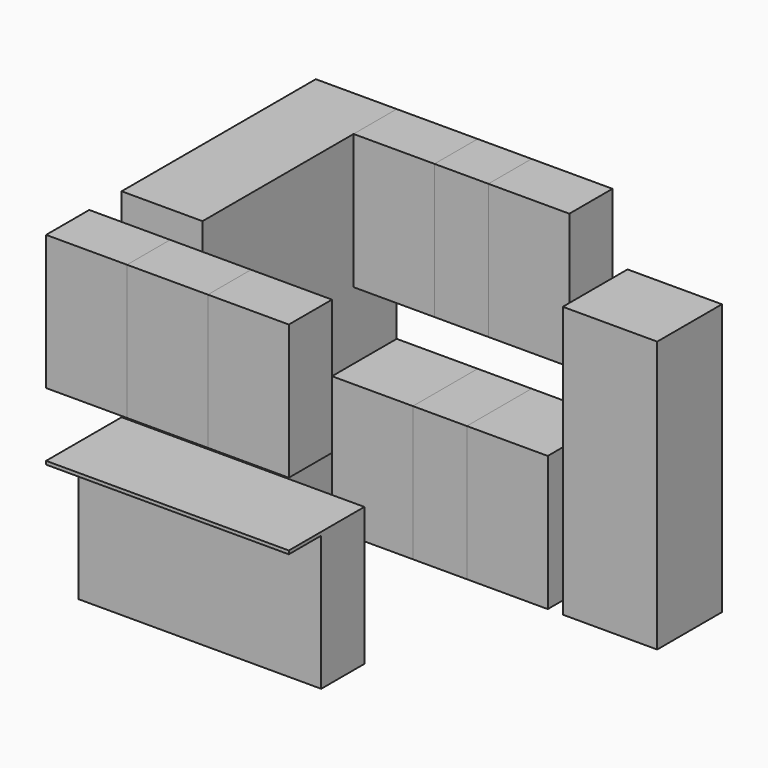
from build123d import *

# Parameters (mm, degrees)
F0_W      = 70
F0_H      = 60
F1_DEPTH  = 201
F0_W_2    = 60
F2_DEPTH  = 100
F3_DEPTH  = 100
F0_W_3    = 40
F4_DEPTH  = 100
F5_DEPTH  = 250
F6_DEPTH  = 250
F0_H_2    = 40
F7_DEPTH  = 100
F8_DEPTH  = 100
F9_DEPTH  = 100
F10_W     = 180
F10_H     = 70
F11_DEPTH = 2.5
F12_W     = 60
F12_H     = 40
F13_DEPTH = 100
F14_W     = 60
F14_H     = 40
F15_DEPTH = 100
F16_W     = 60
F16_H     = 40
F17_DEPTH = 100
F18_W     = 60
F18_H     = 40
F19_DEPTH = 100
F20_W     = 40
F20_H     = 40
F21_DEPTH = 100
F22_W     = 60
F22_H     = 40
F23_DEPTH = 100


with BuildPart() as f1:
    # F0 (on Top) → F1 (new body)
    with BuildSketch(Plane.XY):
        with Locations((266.143773, -30)):
            Rectangle(F0_W, F0_H)
    extrude(amount=F1_DEPTH)


with BuildPart() as f2:
    # F0 (on Top) → F2 (new body)
    with BuildSketch(Plane.XY):
        with Locations((190, -30)):
            Rectangle(F0_W_2, F0_H)
    extrude(amount=F2_DEPTH)


with BuildPart() as f3:
    # F0 (on Top) → F3 (new body)
    with BuildSketch(Plane.XY):
        with Locations((90, -30)):
            Rectangle(F0_W_2, F0_H)
    extrude(amount=F3_DEPTH)

    # F0 (on Top) → F5 (join)
    with BuildSketch(Plane.XY):
        Polygon((60, 0), (0, 0), (0, -120), (60, -120), (60, -60), align=None)
    extrude(amount=F5_DEPTH)

    # F0 (on Top) → F6 (join)
    with BuildSketch(Plane.XY):
        with Locations((30, -150)):
            Rectangle(F0_W_2, F0_H)
    extrude(amount=F6_DEPTH)

    # F0 (on Top) → F7 (join)
    with BuildSketch(Plane.XY):
        with Locations((30, -200)):
            Rectangle(F0_W_2, F0_H_2)
    extrude(amount=F7_DEPTH)

    # F0 (on Top) → F8 (join)
    with BuildSketch(Plane.XY):
        with Locations((90, -200)):
            Rectangle(F0_W_2, F0_H_2)
    extrude(amount=F8_DEPTH)

    # F0 (on Top) → F9 (join)
    with BuildSketch(Plane.XY):
        with Locations((150, -200)):
            Rectangle(F0_W_2, F0_H_2)
    extrude(amount=F9_DEPTH)

    # F10 (on face) → F11 (join)
    with BuildSketch(Plane.XY.offset(100)):
        with Locations((90, -215)):
            Rectangle(F10_W, F10_H)
    extrude(amount=F11_DEPTH)


with BuildPart() as f4:
    # F0 (on Top) → F4 (new body)
    with BuildSketch(Plane.XY):
        with Locations((140, -30)):
            Rectangle(F0_W_3, F0_H)
    extrude(amount=F4_DEPTH)


with BuildPart() as f13:
    # F12 (on face) → F13 (new body)
    with BuildSketch(Plane.XY.offset(250)):
        with Locations((30, -230)):
            Rectangle(F12_W, F12_H)
    extrude(amount=-F13_DEPTH)


with BuildPart() as f15:
    # F14 (on face) → F15 (new body)
    with BuildSketch(Plane.XY.offset(250)):
        with Locations((90, -230)):
            Rectangle(F14_W, F14_H)
    extrude(amount=-F15_DEPTH)


with BuildPart() as f17:
    # F16 (on face) → F17 (new body)
    with BuildSketch(Plane.XY.offset(250)):
        with Locations((150, -230)):
            Rectangle(F16_W, F16_H)
    extrude(amount=-F17_DEPTH)


with BuildPart() as f19:
    # F18 (on face) → F19 (new body)
    with BuildSketch(Plane.XY.offset(250)):
        with Locations((90, -20)):
            Rectangle(F18_W, F18_H)
    extrude(amount=-F19_DEPTH)


with BuildPart() as f21:
    # F20 (on face) → F21 (new body)
    with BuildSketch(Plane.XY.offset(250)):
        with Locations((140, -20)):
            Rectangle(F20_W, F20_H)
    extrude(amount=-F21_DEPTH)


with BuildPart() as f23:
    # F22 (on face) → F23 (new body)
    with BuildSketch(Plane.XY.offset(250)):
        with Locations((190, -20)):
            Rectangle(F22_W, F22_H)
    extrude(amount=-F23_DEPTH)


solid = Compound([f1.part, f2.part, f3.part, f4.part, f13.part, f15.part, f17.part, f19.part, f21.part, f23.part])
